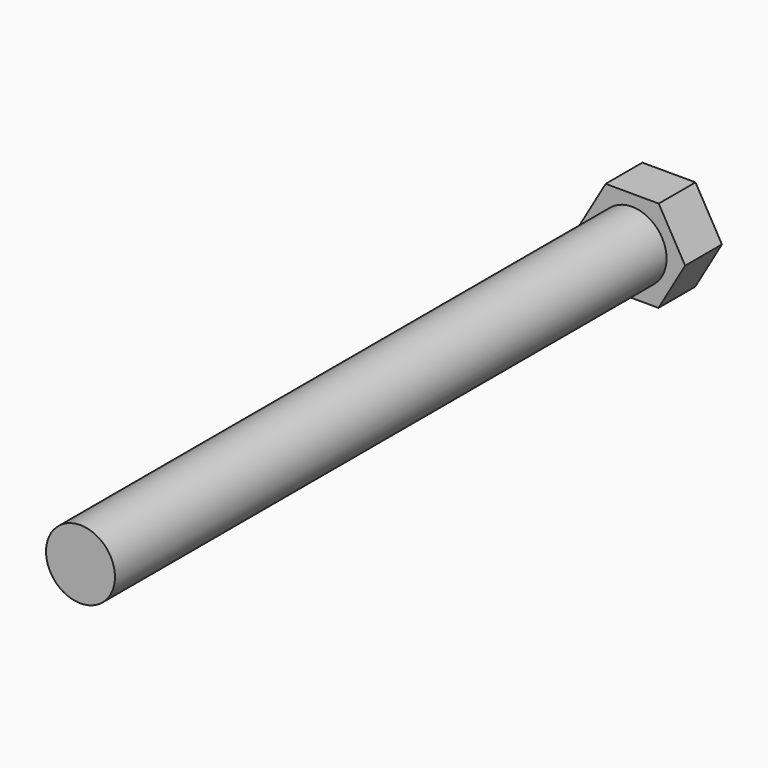
from build123d import *

# Parameters (mm, degrees)
F0_R     = 4.7625
F1_DEPTH = 101.6
F3_DEPTH = 6.35


with BuildPart() as f1:
    # F0 (on Front) → F1 (new body)
    with BuildSketch(Plane.XZ):
        Circle(F0_R)
    extrude(amount=F1_DEPTH)

    # F2 (on Front) → F3 (join)
    with BuildSketch(Plane.XZ):
        Polygon((7.332321, -0.019882), (3.683379, 6.340036), (-3.648942, 6.359918), (-7.332321, 0.019882), (-3.683379, -6.340036), (3.648942, -6.359918), align=None)
    extrude(amount=F3_DEPTH)


solid = f1.part
